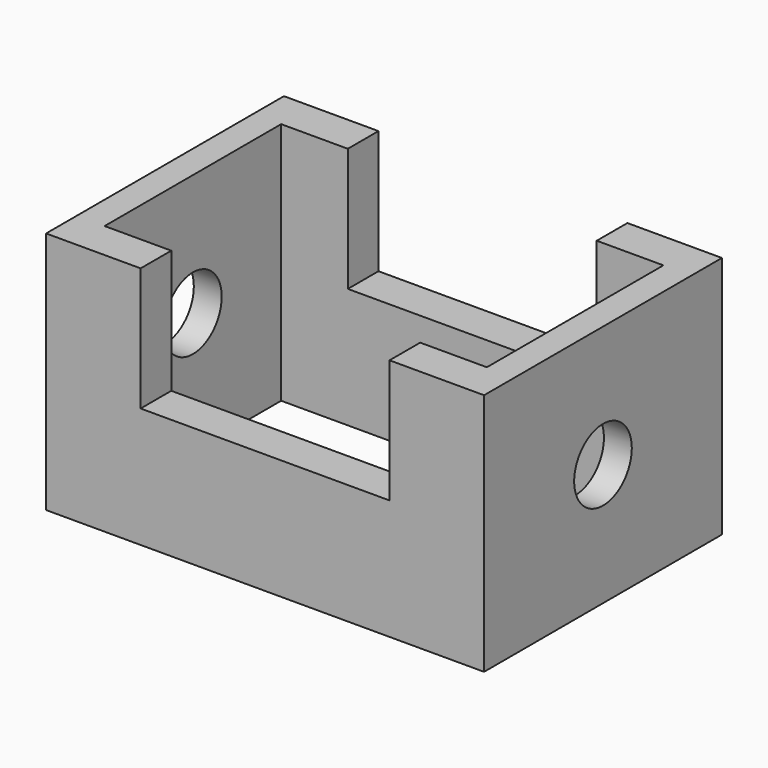
from build123d import *

# Parameters (mm, degrees)
F0_W     = 182.7391684055
F0_H     = 124.0453347564
F0_W_2   = 159.4799607992
F0_H_2   = 92.0757874846
F1_DEPTH = 101.6
F2_W     = 103.849850595
F2_H     = 51.4723447323
F3_DEPTH = 1270
F4_R     = 15.0246313373
F5_DEPTH = 1270


with BuildPart() as f1:
    # F0 (on Top) → F1 (new body)
    with BuildSketch(Plane.XY):
        Rectangle(F0_W, F0_H)
        Rectangle(F0_W_2, F0_H_2, mode=Mode.SUBTRACT)
    extrude(amount=F1_DEPTH)

    # F2 (on face) → F3 (cut)
    with BuildSketch(Plane.XZ.offset(62.0226673782)):
        with Locations((0, 75.8638276339)):
            Rectangle(F2_W, F2_H)
    extrude(amount=-F3_DEPTH, mode=Mode.SUBTRACT)

    # F4 (on face) → F5 (cut)
    with BuildSketch(Plane.YZ.offset(91.3695842028)):
        with Locations((0, 50.8573576808)):
            Circle(F4_R)
    extrude(amount=-F5_DEPTH, mode=Mode.SUBTRACT)


solid = f1.part
